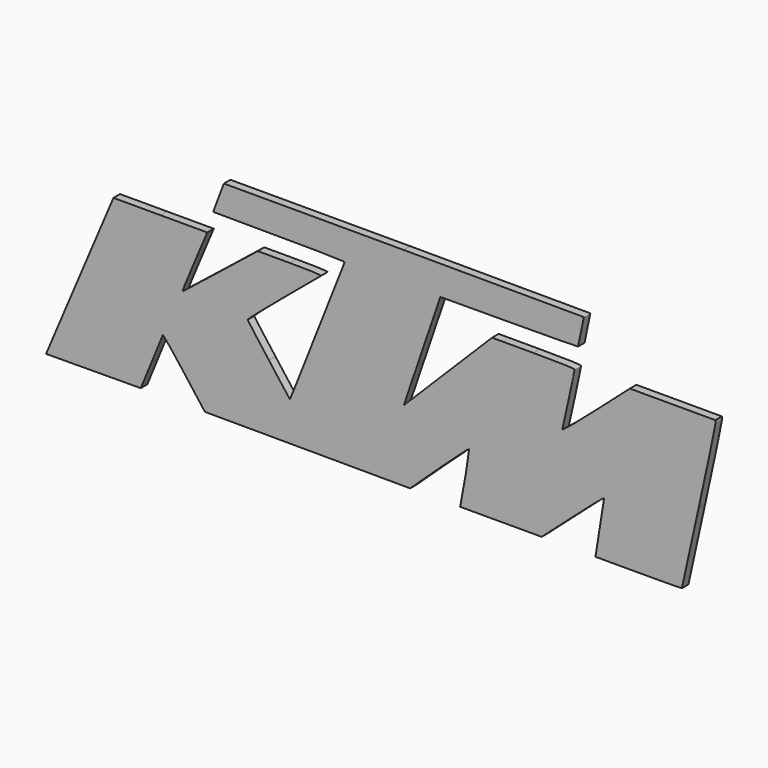
from build123d import *

# Parameters (mm, degrees)
F1_DEPTH = 2
F2_SCALE = 0.45


with BuildPart() as f1:
    # F0 (on Front) → F1 (new body)
    with BuildSketch(Plane.XZ):
        with BuildLine():
            add(Edge.make_bspline(
                [(-80.786111, -22.917398), (-80.213136, -21.550251), (-76.505838, -12.787243), (-72.547671, -3.444042)],
                knots=[0, 0, 0, 0, 1, 1, 1, 1], degree=3))
            Line((-80.786111, -22.917398), (-81.827884, -25.403118))
            Line((-81.827884, -25.403118), (-70.249846, -25.329444))
            Line((-70.249846, -25.329444), (-58.671809, -25.255772))
            Line((-58.671809, -25.255772), (-56.018156, -18.764661))
            add(Edge.make_bspline(
                [(-53.277055, -12.02312), (-53.325152, -12.160856), (-54.558646, -15.19455), (-56.018156, -18.764661)],
                knots=[0, 0, 0, 0, 1, 1, 1, 1], degree=3))
            add(Edge.make_bspline(
                [(-48.094211, -18.514231), (-50.896677, -14.806382), (-53.228959, -11.885382), (-53.277055, -12.02312)],
                knots=[0, 0, 0, 0, 1, 1, 1, 1], degree=3))
            Line((-48.094211, -18.514231), (-42.998818, -25.255772))
            Line((-42.998818, -25.255772), (-17.90271, -25.327832))
            Line((-17.90271, -25.327832), (7.193396, -25.399895))
            Line((7.193396, -25.399895), (14.332707, -18.738979))
            add(Edge.make_bspline(
                [(21.623729, -12.229769), (21.540287, -12.14633), (18.25933, -15.075475), (14.332707, -18.738979)],
                knots=[0, 0, 0, 0, 1, 1, 1, 1], degree=3))
            add(Edge.make_bspline(
                [(19.542574, -24.761889), (20.056092, -22.543512), (21.748181, -12.354223), (21.623729, -12.229769)],
                knots=[0, 0, 0, 0, 1, 1, 1, 1], degree=3))
            Line((19.542574, -24.761889), (19.395582, -25.396889))
            Line((19.395582, -25.396889), (29.374511, -25.388394))
            Line((29.374511, -25.388394), (39.35344, -25.379899))
            Line((39.35344, -25.379899), (45.421218, -19.995099))
            add(Edge.make_bspline(
                [(54.574446, -12.337595), (54.698525, -11.776545), (54.412979, -12.015432), (45.421218, -19.995099)],
                knots=[0, 0, 0, 0, 1, 1, 1, 1], degree=3))
            add(Edge.make_bspline(
                [(53.608552, -18.482439), (54.078929, -15.377995), (54.513579, -12.612815), (54.574446, -12.337595)],
                knots=[0, 0, 0, 0, 1, 1, 1, 1], degree=3))
            add(Edge.make_bspline(
                [(52.609674, -24.761883), (52.688683, -24.412633), (53.138178, -21.586883), (53.608552, -18.482439)],
                knots=[0, 0, 0, 0, 1, 1, 1, 1], degree=3))
            Line((52.609674, -24.761883), (52.466021, -25.396883))
            Line((52.466021, -25.396883), (63.05473, -25.396883))
            add(Edge.make_bspline(
                [(73.64344, -25.29565), (73.64344, -25.351327), (68.878521, -25.396883), (63.05473, -25.396883)],
                knots=[0, 0, 0, 0, 1, 1, 1, 1], degree=3))
            add(Edge.make_bspline(
                [(77.735662, -6.653343), (75.48494, -16.850935), (73.64344, -25.239971), (73.64344, -25.29565)],
                knots=[0, 0, 0, 0, 1, 1, 1, 1], degree=3))
            add(Edge.make_bspline(
                [(81.827884, 12.718757), (81.827884, 12.26169), (79.986384, 3.544246), (77.735662, -6.653343)],
                knots=[0, 0, 0, 0, 1, 1, 1, 1], degree=3))
            Line((81.827884, 12.718757), (81.827884, 13.549783))
            Line((81.827884, 13.549783), (71.37213, 13.549783))
            Line((71.37213, 13.549783), (60.916375, 13.549783))
            Line((60.916375, 13.549783), (52.576844, 6.185254))
            add(Edge.make_bspline(
                [(44.389024, -0.658635), (44.305582, -0.944989), (47.9901, 2.134761), (52.576844, 6.185254)],
                knots=[0, 0, 0, 0, 1, 1, 1, 1], degree=3))
            add(Edge.make_bspline(
                [(47.396773, 13.230562), (47.396773, 12.904358), (44.664046, 0.285161), (44.389024, -0.658635)],
                knots=[0, 0, 0, 0, 1, 1, 1, 1], degree=3))
            add(Edge.make_bspline(
                [(37.308686, 13.549783), (44.625438, 13.549783), (47.396773, 13.462088), (47.396773, 13.230562)],
                knots=[0, 0, 0, 0, 1, 1, 1, 1], degree=3))
            Line((37.308686, 13.549783), (27.220599, 13.549783))
            Line((27.220599, 13.549783), (16.42199, 2.754783))
            Line((16.42199, 2.754783), (5.623383, -8.040217))
            Line((5.623383, -8.040217), (8.902071, 1.555339))
            add(Edge.make_bspline(
                [(13.374196, 14.678672), (12.717806, 12.738394), (10.70535, 6.832894), (8.902071, 1.555339)],
                knots=[0, 0, 0, 0, 1, 1, 1, 1], degree=3))
            Line((13.374196, 14.678672), (14.567629, 18.20645))
            Line((14.567629, 18.20645), (31.405534, 18.279226))
            add(Edge.make_bspline(
                [(48.24344, 18.468314), (48.24344, 18.404342), (40.666383, 18.319253), (31.405534, 18.279226)],
                knots=[0, 0, 0, 0, 1, 1, 1, 1], degree=3))
            add(Edge.make_bspline(
                [(48.948995, 21.847967), (48.56094, 20.05313), (48.24344, 18.532286), (48.24344, 18.468314)],
                knots=[0, 0, 0, 0, 1, 1, 1, 1], degree=3))
            add(Edge.make_bspline(
                [(49.654551, 25.257212), (49.654551, 25.176965), (49.337051, 23.642805), (48.948995, 21.847967)],
                knots=[0, 0, 0, 0, 1, 1, 1, 1], degree=3))
            add(Edge.make_bspline(
                [(5.648162, 25.403117), (29.851675, 25.403117), (49.654551, 25.33746), (49.654551, 25.257212)],
                knots=[0, 0, 0, 0, 1, 1, 1, 1], degree=3))
            Line((5.648162, 25.403117), (-38.358227, 25.403117))
            Line((-38.358227, 25.403117), (-38.915701, 23.92145))
            add(Edge.make_bspline(
                [(-40.205978, 20.501182), (-39.802937, 21.567413), (-39.222312, 23.106533), (-38.915701, 23.92145)],
                knots=[0, 0, 0, 0, 1, 1, 1, 1], degree=3))
            add(Edge.make_bspline(
                [(-40.938782, 18.455071), (-40.938782, 18.514201), (-40.60902, 19.434951), (-40.205978, 20.501182)],
                knots=[0, 0, 0, 0, 1, 1, 1, 1], degree=3))
            add(Edge.make_bspline(
                [(-24.821921, 18.347561), (-33.686196, 18.347561), (-40.938782, 18.39594), (-40.938782, 18.455071)],
                knots=[0, 0, 0, 0, 1, 1, 1, 1], degree=3))
            add(Edge.make_bspline(
                [(-8.849907, 17.994783), (-8.735025, 18.274578), (-12.039328, 18.347561), (-24.821921, 18.347561)],
                knots=[0, 0, 0, 0, 1, 1, 1, 1], degree=3))
            add(Edge.make_bspline(
                [(-17.044525, -2.819106), (-12.645437, 8.372812), (-9.026821, 17.563906), (-8.849907, 17.994783)],
                knots=[0, 0, 0, 0, 1, 1, 1, 1], degree=3))
            add(Edge.make_bspline(
                [(-21.262571, -13.480479), (-20.742486, -12.195775), (-18.844367, -7.398161), (-17.044525, -2.819106)],
                knots=[0, 0, 0, 0, 1, 1, 1, 1], degree=3))
            Line((-21.262571, -13.480479), (-22.208179, -15.816291))
            Line((-22.208179, -15.816291), (-27.335863, -9.048331))
            add(Edge.make_bspline(
                [(-32.538387, -2.026468), (-32.497225, -2.166114), (-30.15609, -5.325953), (-27.335863, -9.048331)],
                knots=[0, 0, 0, 0, 1, 1, 1, 1], degree=3))
            add(Edge.make_bspline(
                [(-23.723227, 5.632445), (-28.612727, 1.559688), (-32.579549, -1.886821), (-32.538387, -2.026468)],
                knots=[0, 0, 0, 0, 1, 1, 1, 1], degree=3))
            add(Edge.make_bspline(
                [(-14.565116, 13.293616), (-14.712577, 13.152728), (-18.833727, 9.7052), (-23.723227, 5.632445)],
                knots=[0, 0, 0, 0, 1, 1, 1, 1], degree=3))
            add(Edge.make_bspline(
                [(-22.185116, 13.549484), (-17.45265, 13.549659), (-14.404263, 13.447297), (-14.565116, 13.293616)],
                knots=[0, 0, 0, 0, 1, 1, 1, 1], degree=3))
            Line((-22.185116, 13.549484), (-30.073227, 13.549202))
            Line((-30.073227, 13.549202), (-39.098868, 6.329277))
            add(Edge.make_bspline(
                [(-48.34488, -1.026868), (-48.223677, -0.951957), (-44.062971, 2.358306), (-39.098868, 6.329277)],
                knots=[0, 0, 0, 0, 1, 1, 1, 1], degree=3))
            add(Edge.make_bspline(
                [(-44.95047, 7.552581), (-48.164072, -0.051688), (-48.616254, -1.194584), (-48.34488, -1.026868)],
                knots=[0, 0, 0, 0, 1, 1, 1, 1], degree=3))
            Line((-44.95047, 7.552581), (-42.416012, 13.549803))
            Line((-42.416012, 13.549803), (-53.883509, 13.546699))
            Line((-53.883509, 13.546699), (-65.351005, 13.543594))
            Line((-65.351005, 13.543594), (-72.547671, -3.444042))
        make_face()
    extrude(amount=F1_DEPTH)


with BuildPart() as f1_1:
    # F2: moved
    add(f1.part.scale(F2_SCALE))


solid = f1_1.part
